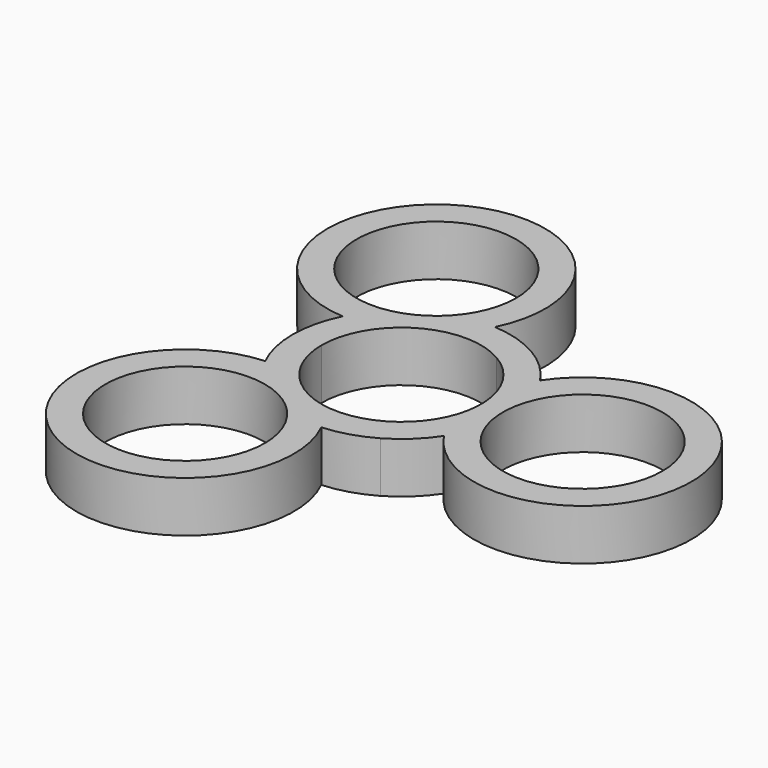
from build123d import *

# Parameters (mm, degrees)
F0_R     = 11
F1_DEPTH = 7


with BuildPart() as f1:
    # F0 (on Top) → F1 (new body)
    with BuildSketch(Plane.XY):
        with BuildLine():
            ThreePointArc((7.5, -12.990381), (10.272279, -10.930703), (12.5, -8.291562))
            ThreePointArc((12.5, -8.291562), (40, 0), (12.5, 8.291562))
            ThreePointArc((12.5, 8.291562), (10.272279, 10.930703), (7.5, 12.990381))
            ThreePointArc((7.5, 12.990381), (4.330127, 14.361407), (0.930703, 14.971099))
            ThreePointArc((0.930703, 14.971099), (-20, 34.641016), (-13.430703, 6.679537))
            ThreePointArc((-13.430703, 6.679537), (-14.602406, 3.430703), (-15, 0))
            ThreePointArc((-15, 0), (-14.602406, -3.430703), (-13.430703, -6.679537))
            ThreePointArc((-13.430703, -6.679537), (-20, -34.641016), (0.930703, -14.971099))
            ThreePointArc((0.930703, -14.971099), (4.330127, -14.361407), (7.5, -12.990381))
        make_face()
        with Locations((-12.5, -21.650635)):
            Circle(F0_R, mode=Mode.SUBTRACT)
        with BuildLine():
            ThreePointArc((5.5, 9.526279), (11, 0), (5.5, -9.526279))
            ThreePointArc((5.5, -9.526279), (-5.5, -9.526279), (-11, 0))
            ThreePointArc((-11, 0), (-5.5, 9.526279), (5.5, 9.526279))
        make_face(mode=Mode.SUBTRACT)
        with Locations((25, 0)):
            Circle(F0_R, mode=Mode.SUBTRACT)
        with Locations((-12.5, 21.650635)):
            Circle(F0_R, mode=Mode.SUBTRACT)
    extrude(amount=F1_DEPTH)


solid = f1.part
